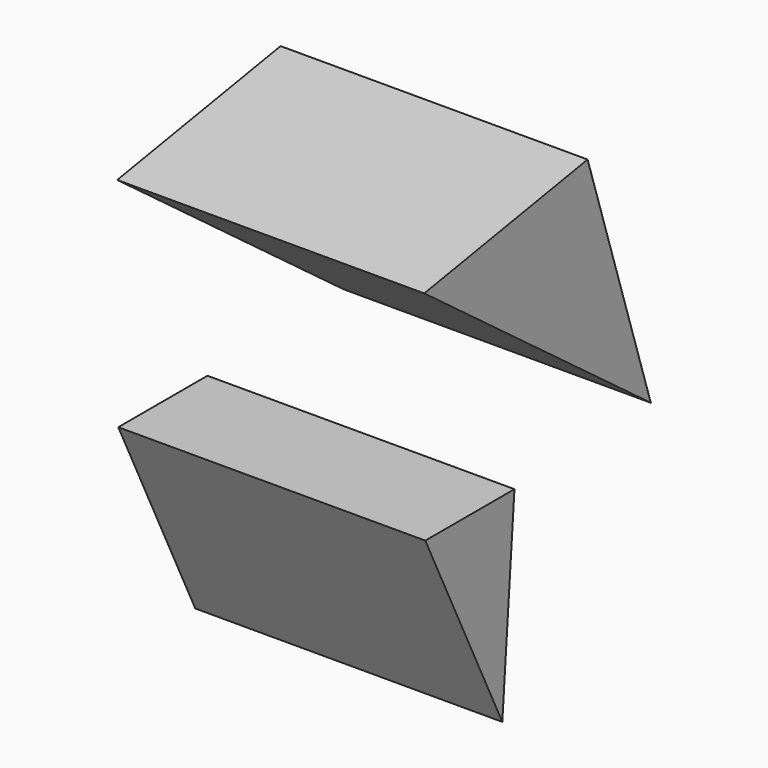
from build123d import *

# Parameters (mm, degrees)
F1_DEPTH = 72.98064


with BuildPart() as f1:
    # F0 (on Right) → F1 (new body)
    with BuildSketch(Plane.YZ):
        Polygon((40.509246, 1.603477), (21.732122, 60.14663), (-26.806678, 51.864249), align=None)
        Polygon((0, 0), (-26.488944, 0), (-3.609454, -47.242478), align=None)
    extrude(amount=F1_DEPTH)


solid = f1.part
